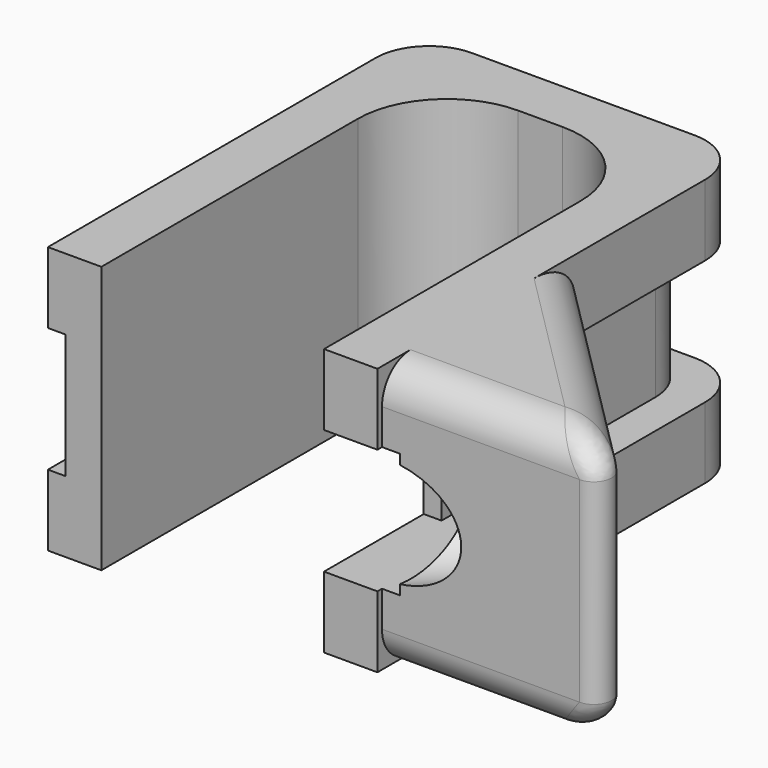
from build123d import *

# Parameters (mm, degrees)
SKETCH_W        = 18.5
SKETCH_H        = 26
PAD_DEPTH       = 15
SKETCH001_W     = 12.5
SKETCH001_H     = 23
POCKET_DEPTH    = 15
SKETCH002_W     = 30
SKETCH002_H     = 7
POCKET001_DEPTH = 1
PAD001_DEPTH    = 15
SKETCH004_R     = 1.5
POCKET002_DEPTH = 15
SKETCH005_W     = 30
SKETCH005_H     = 7
POCKET003_DEPTH = 1
SKETCH006_W     = 30
SKETCH006_H     = 7
POCKET004_DEPTH = 2
SKETCH007_W     = 7
SKETCH007_H     = 7
POCKET005_DEPTH = 4
SKETCH008_R     = 3
POCKET006_DEPTH = 10
FILLET_R        = 5
FILLET001_R     = 3
FILLET002_R     = 1
FILLET003_R     = 2


with BuildPart() as part:
    # Sketch → Pad (new body)
    with BuildSketch(Plane.XY):
        with Locations((9.25, 13)):
            Rectangle(SKETCH_W, SKETCH_H)
    extrude(amount=PAD_DEPTH)

    # Sketch001 (on Face6 of Pad) → Pocket (cut)
    with BuildSketch(Plane.XY.offset(15)):
        with Locations((9.25, 11.5)):
            Rectangle(SKETCH001_W, SKETCH001_H)
    extrude(amount=-POCKET_DEPTH, mode=Mode.SUBTRACT)

    # Sketch002 (on Face6 of Pocket) → Pocket001 (cut)
    with BuildSketch(Plane(origin=(0, 26, 0), x_dir=(-1, 0, 0), z_dir=(0, 1, 0))):
        with Locations((-15, 7.5)):
            Rectangle(SKETCH002_W, SKETCH002_H)
    extrude(amount=-POCKET001_DEPTH, mode=Mode.SUBTRACT)

    # Sketch003 (on Face4 of Pocket001) → Pad001 (join)
    with BuildSketch(Plane.XY):
        Polygon((18.5, 13.821131), (18.5, 0.321131), (32, 0.321131), align=None)
    extrude(amount=PAD001_DEPTH)

    # Sketch004 (on Face19 of Pad001) → Pocket002 (cut)
    with BuildSketch(Plane(origin=(16.160565, 16.160566, 0), x_dir=(-0.707107, 0.707107, 0), z_dir=(0.707107, 0.707107, 0))):
        with Locations((-13, 7.5)):
            Circle(SKETCH004_R)
    extrude(amount=-POCKET002_DEPTH, mode=Mode.SUBTRACT)

    # Sketch005 (on Face5 of Pocket002) → Pocket003 (cut)
    with BuildSketch(Plane(origin=(0, 0, 0), x_dir=(0, -1, 0), z_dir=(-1, 0, 0))):
        with Locations((-15, 7.5)):
            Rectangle(SKETCH005_W, SKETCH005_H)
    extrude(amount=-POCKET003_DEPTH, mode=Mode.SUBTRACT)

    # Sketch006 (on Face13 of Pocket003) → Pocket004 (cut)
    with BuildSketch(Plane.YZ.offset(18.5)):
        with Locations((15, 7.5)):
            Rectangle(SKETCH006_W, SKETCH006_H)
    extrude(amount=-POCKET004_DEPTH, mode=Mode.SUBTRACT)

    # Sketch007 (on Face15 of Pocket004) → Pocket005 (cut)
    with BuildSketch(Plane(origin=(15.5, 0, 0), x_dir=(0, -1, 0), z_dir=(-1, 0, 0))):
        with Locations((-3.5, 7.5)):
            Rectangle(SKETCH007_W, SKETCH007_H)
    extrude(amount=-POCKET005_DEPTH, mode=Mode.SUBTRACT)

    # Sketch008 (on Face29 of Pocket005) → Pocket006 (cut)
    with BuildSketch(Plane(origin=(13.332138, 13.332138, 0), x_dir=(-0.707107, 0.707107, 0), z_dir=(0.707107, 0.707107, 0))):
        with Locations((-13, 7.5)):
            Circle(SKETCH008_R)
    extrude(amount=-POCKET006_DEPTH, mode=Mode.SUBTRACT)

    # Fillet
    fillet_edges = [part.edges().sort_by_distance(p)[0] for p in [
        (15.5, 23, 7.5),
        (3, 23, 7.5),
    ]]
    fillet(fillet_edges, radius=FILLET_R)

    # Fillet001
    fillet001_edges = [part.edges().sort_by_distance(p)[0] for p in [
        (0, 26, 13),
        (18.5, 26, 13),
        (18.5, 26, 2),
        (0, 26, 2),
        (1, 25, 7.5),
        (16.5, 25, 7.5),
    ]]
    fillet(fillet001_edges, radius=FILLET001_R)

    # Fillet002
    fillet002_edges = [part.edges().sort_by_distance(p)[0] for p in [
        (32, 0.321131, 7.5),
    ]]
    fillet(fillet002_edges, radius=FILLET002_R)

    # Fillet003
    fillet003_edges = [part.edges().sort_by_distance(p)[0] for p in [
        (30.509666, 0.938448, 15),
        (30.509666, 0.938448, 0),
    ]]
    fillet(fillet003_edges, radius=FILLET003_R)


solid = part.part
